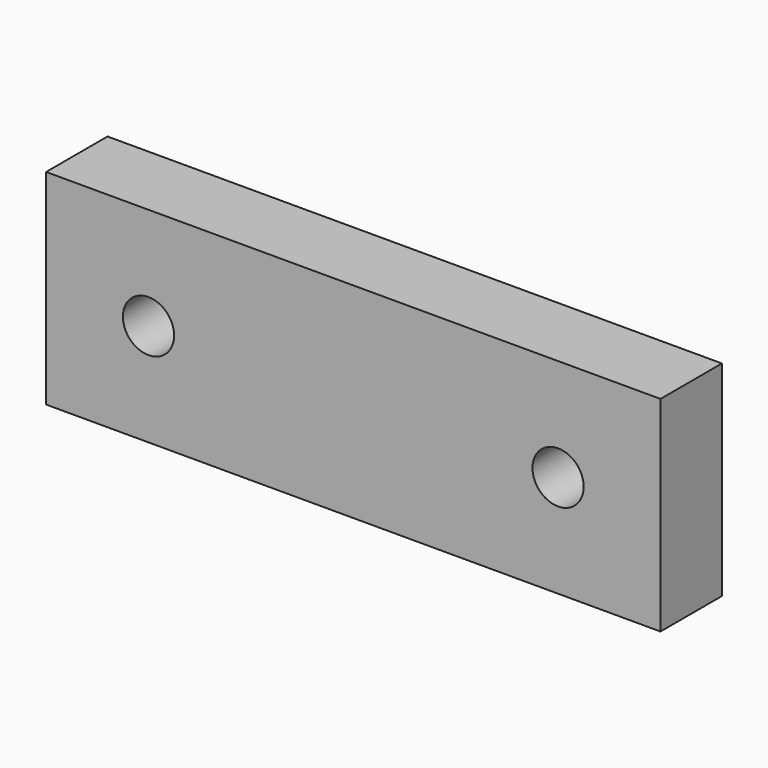
from build123d import *

# Parameters (mm, degrees)
F0_W     = 120
F0_H     = 40
F0_R     = 5
F1_DEPTH = 7.5


with BuildPart() as f1:
    # F0 (on Front) → F1 (new body, symmetric)
    with BuildSketch(Plane.XZ):
        with Locations((60, 20)):
            Rectangle(F0_W, F0_H)
        with Locations((20, 20)):
            Circle(F0_R, mode=Mode.SUBTRACT)
        with Locations((100, 20)):
            Circle(F0_R, mode=Mode.SUBTRACT)
    extrude(amount=F1_DEPTH, both=True)


solid = f1.part
